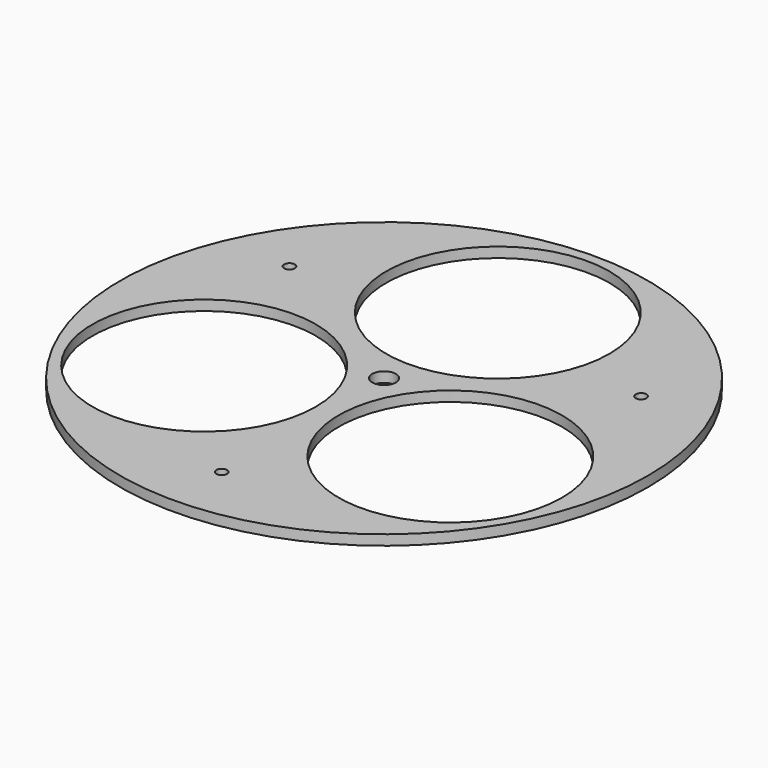
from build123d import *

# Parameters (mm, degrees)
F0_R     = 165.1
F0_R_2   = 69.85
F0_R_3   = 3.373437
F0_R_4   = 7.34441
F1_DEPTH = 6.35


with BuildPart() as f1:
    # F0 (on Top) → F1 (new body)
    with BuildSketch(Plane.XY):
        Circle(F0_R)
        with Locations((-76.989658, -44.45)):
            Circle(F0_R_2, mode=Mode.SUBTRACT)
        with Locations((0, -127)):
            Circle(F0_R_3, mode=Mode.SUBTRACT)
        with Locations((76.989658, -44.45)):
            Circle(F0_R_2, mode=Mode.SUBTRACT)
        with Locations((-109.985226, 63.5)):
            Circle(F0_R_3, mode=Mode.SUBTRACT)
        Circle(F0_R_4, mode=Mode.SUBTRACT)
        with Locations((109.985226, 63.5)):
            Circle(F0_R_3, mode=Mode.SUBTRACT)
        with Locations((0, 88.9)):
            Circle(F0_R_2, mode=Mode.SUBTRACT)
    extrude(amount=F1_DEPTH)


solid = f1.part
